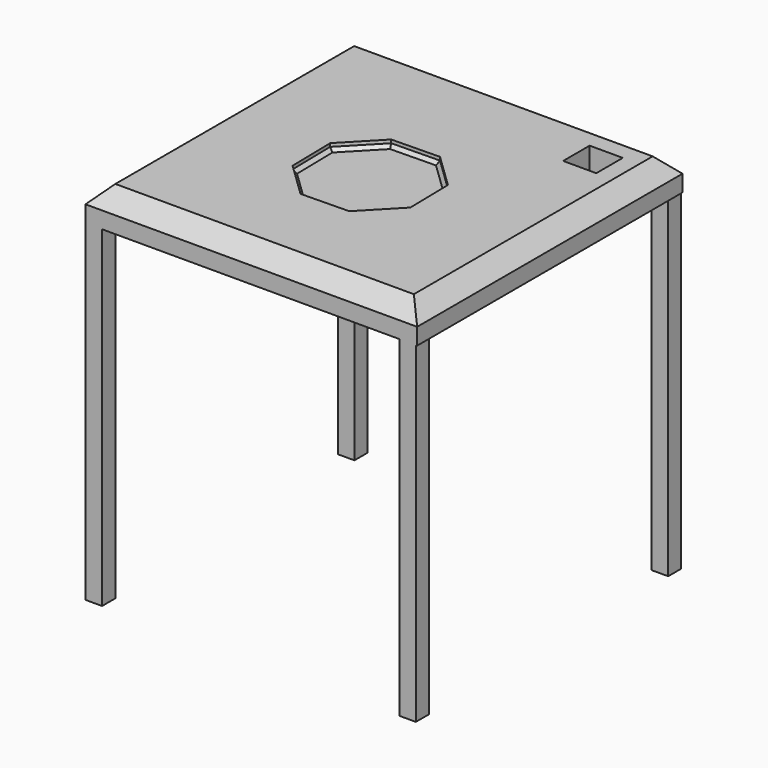
from build123d import *

# Parameters (mm, degrees)
F0_W     = 100
F0_H     = 100
F2_DEPTH = 10
F4_SIZE2 = 5
F4_SIZE  = 5
F3_W     = 10
F3_H     = 10
F5_DEPTH = 34
F6_DEPTH = 2
F7_SIZE  = 1
F8_W     = 5
F8_H     = 4.9
F8_H_2   = 5
F9_DEPTH = 100


with BuildPart() as f2:
    # F0 (on Top) → F2 (new body)
    with BuildSketch(Plane.XY):
        with Locations((0.868328, 4.095532)):
            Rectangle(F0_W, F0_H)
    extrude(amount=-F2_DEPTH)

    # F4
    f4_edges = [f2.edges().sort_by_distance(p)[0] for p in [
        (0.868328, -45.904468, 0),
        (-49.131672, 4.095532, 0),
        (0.868328, 54.095532, 0),
        (50.868328, 4.095532, 0),
    ]]
    chamfer(f4_edges, length=F4_SIZE, length2=F4_SIZE2)

    # F3 (on face) → F5 (cut)
    with BuildSketch(Plane.XY):
        with Locations((35.868328, 39.095532)):
            Rectangle(F3_W, F3_H)
    extrude(amount=-F5_DEPTH, mode=Mode.SUBTRACT)

    # F1 (on face) → F6 (cut)
    with BuildSketch(Plane.XY):
        Polygon((-7.571068, 17.362981), (-17.631035, 6.923928), (-17.362981, -7.571068), (-6.923928, -17.631035), (7.571068, -17.362981), (17.631035, -6.923928), (17.362981, 7.571068), (6.923928, 17.631035), align=None)
    extrude(amount=-F6_DEPTH, mode=Mode.SUBTRACT)

    # F7
    f7_edges = [f2.edges().sort_by_distance(p)[0] for p in [
        (12.143455, 12.601052, -2),
        (-0.32357, 17.497008, -2),
        (-12.601052, 12.143455, -2),
        (-17.497008, -0.32357, -2),
        (-12.143455, -12.601052, -2),
        (0.32357, -17.497008, -2),
        (12.601052, -12.143455, -2),
        (17.497008, 0.32357, -2),
    ]]
    chamfer(f7_edges, length=F7_SIZE)

    # F8 (on face) → F9 (join)
    with BuildSketch(Plane(origin=(0, 0, -10), x_dir=(1, 0, 0), z_dir=(0, 0, -1))):
        with Locations((-46.631672, -51.645532)):
            Rectangle(F8_W, F8_H)
        with Locations((-46.631672, 43.404468)):
            Rectangle(F8_W, F8_H_2)
        with Locations((47.968328, -51.645532)):
            Rectangle(F8_W, F8_H)
        with Locations((47.968328, 43.404468)):
            Rectangle(F8_W, F8_H_2)
    extrude(amount=F9_DEPTH)


solid = f2.part
